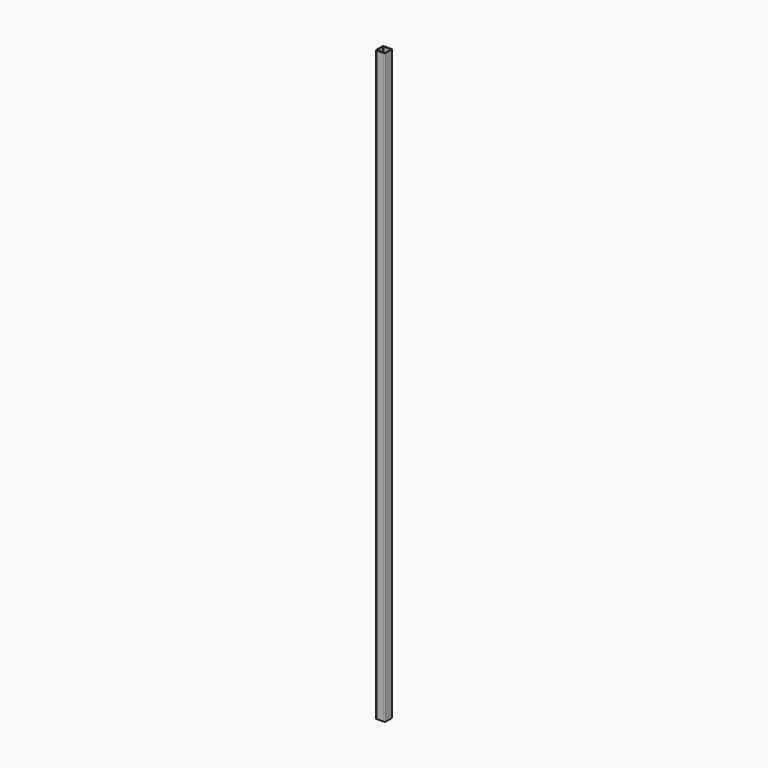
from build123d import *

# Parameters (mm, degrees)
F1_DEPTH = 1600


with BuildPart() as f1:
    # F0 (on Top) → F1 (new body)
    with BuildSketch(Plane.XY):
        with BuildLine():
            ThreePointArc((12.5, 10), (11.767767, 11.767767), (10, 12.5))
            Line((10, 12.5), (-10, 12.5))
            ThreePointArc((-10, 12.5), (-11.767767, 11.767767), (-12.5, 10))
            Line((-12.5, 10), (-12.5, -10))
            ThreePointArc((-12.5, -10), (-11.767767, -11.767767), (-10, -12.5))
            Line((-10, -12.5), (10, -12.5))
            ThreePointArc((10, -12.5), (11.767767, -11.767767), (12.5, -10))
            Line((12.5, -10), (12.5, 10))
        make_face()
        with BuildLine():
            ThreePointArc((11, -10), (10.707107, -10.707107), (10, -11))
            Line((10, -11), (-10, -11))
            ThreePointArc((-10, -11), (-10.707107, -10.707107), (-11, -10))
            Line((-11, -10), (-11, 10))
            ThreePointArc((-11, 10), (-10.707107, 10.707107), (-10, 11))
            Line((-10, 11), (11, 11))
            Line((11, 11), (11, -10))
        make_face(mode=Mode.SUBTRACT)
    extrude(amount=F1_DEPTH)


solid = f1.part
